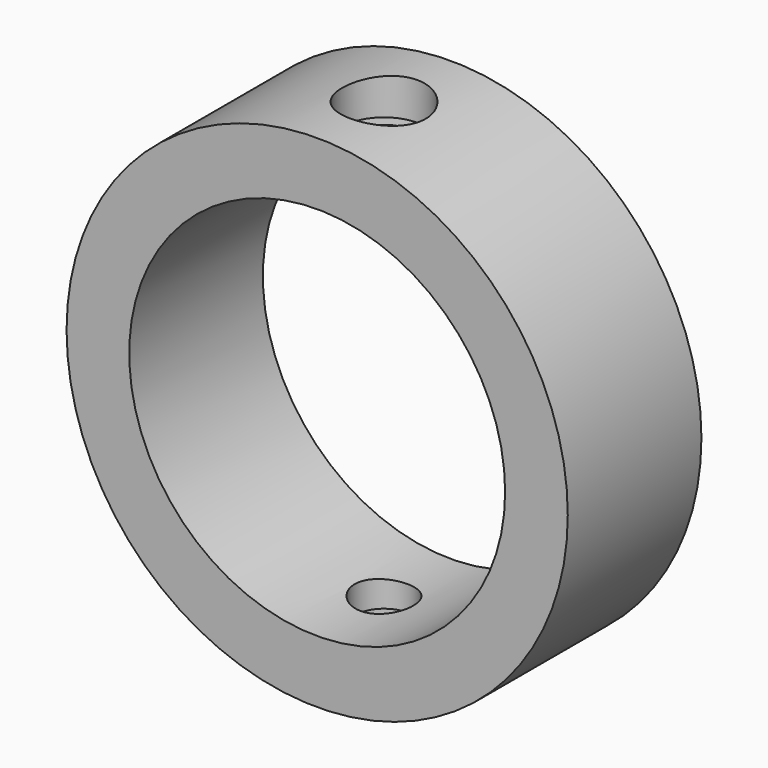
from build123d import *

# Parameters (mm, degrees)
F0_R     = 38.1
F0_R_2   = 28.575
F1_DEPTH = 25.4
F2_R     = 4.445
F3_DEPTH = 38.1
F5_R     = 6.35
F5_R_2   = 4.445
F6_DEPTH = 25.4
F8_R     = 6.35
F8_R_2   = 4.445
F9_DEPTH = 25.4


with BuildPart() as f1:
    # F0 (on Front) → F1 (new body)
    with BuildSketch(Plane.XZ):
        Circle(F0_R)
        Circle(F0_R_2, mode=Mode.SUBTRACT)
    extrude(amount=F1_DEPTH)

    # F2 (on Top) → F3 (cut, symmetric)
    with BuildSketch(Plane.XY):
        with Locations((0, -12.7)):
            Circle(F2_R)
    extrude(amount=F3_DEPTH, both=True, mode=Mode.SUBTRACT)

    # F5 (on offset) → F6 (cut)
    with BuildSketch(Plane.XY.offset(32.385)):
        with Locations((0, -12.7)):
            Circle(F5_R)
        with Locations((0, -12.7)):
            Circle(F5_R_2, mode=Mode.SUBTRACT)
    extrude(amount=F6_DEPTH, mode=Mode.SUBTRACT)

    # F8 (on offset) → F9 (cut)
    with BuildSketch(Plane.XY.offset(-32.385)):
        with Locations((0, -12.7)):
            Circle(F8_R)
        with Locations((0, -12.7)):
            Circle(F8_R_2, mode=Mode.SUBTRACT)
    extrude(amount=-F9_DEPTH, mode=Mode.SUBTRACT)


solid = f1.part
